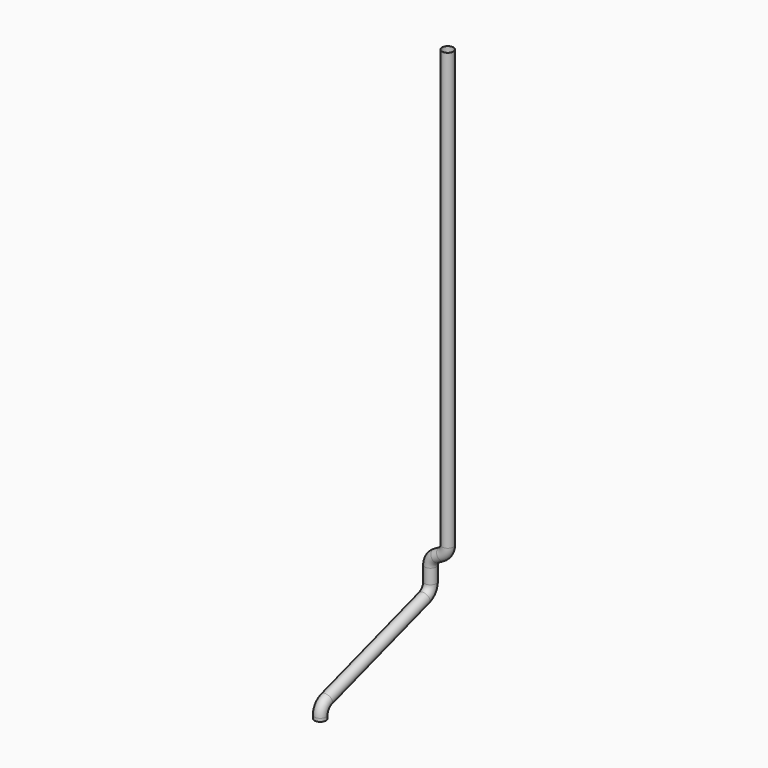
from build123d import *

# Parameters (mm, degrees)
F1_R        = 50
F1_R_2      = 49
F2_FACE_R   = 50
F2_FACE_R_2 = 49


with BuildPart() as f2:
    # F2: sweep along a path in F0
    with BuildLine(Plane.YZ) as f2_path:
        Line((0, 0), (0, -27.3457471995))
        ThreePointArc((0, -27.3457471995), (-19.0983005625, -86.1242724287), (-69.0983005625, -122.451398829))
        Line((-69.0983005625, -122.451398829), (-1130.9016994375, -467.4522366505))
        ThreePointArc((-1130.9016994375, -467.4522366505), (-1180.9016994375, -503.7793630508), (-1200, -562.55788828))
        Line((-1200, -562.55788828), (-1200, -589.9036354795))
    # F1 (on Top) → F2 (sweep)
    with BuildSketch(Plane.XY):
        Circle(F1_R)
        Circle(F1_R_2, mode=Mode.SUBTRACT)
    sweep(path=f2_path.line)

    # F4: sweep along a path in F3
    with BuildLine(Plane.XZ) as f4_path:
        Line((0, 0), (0, 100))
        ThreePointArc((0, 100), (-13.3974596216, 150), (-50, 186.6025403784))
        Line((-50, 186.6025403784), (-100, 215.4700538379))
        ThreePointArc((-100, 215.4700538379), (-136.6025403784, 252.0725942164), (-150, 302.0725942164))
        Line((-150, 302.0725942164), (-150, 4100))
    # F2_face (on face) → F4 (sweep)
    with BuildSketch(Plane.XY):
        Circle(F2_FACE_R)
        Circle(F2_FACE_R_2, mode=Mode.SUBTRACT)
    sweep(path=f4_path.line)


with BuildPart() as f6_1:
    # F6: instance of F2
    add(f2.part.mirror(Plane.YZ.offset(200)))


solid = f6_1.part
